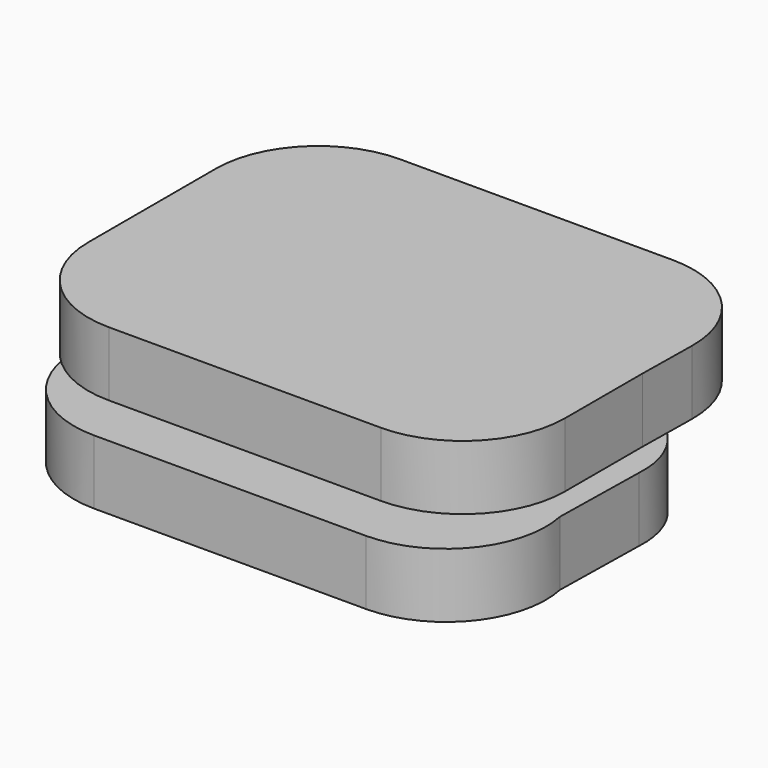
from build123d import *

# Parameters (mm, degrees)
F1_DEPTH = 8
F4_DEPTH = 8


with BuildPart() as f1:
    # F0 (on Top) → F1 (new body)
    with BuildSketch(Plane.XY):
        with BuildLine():
            Line((-17.608003, -17.78), (16.173997, -17.78))
            ThreePointArc((16.173997, -17.78), (25.796989, -13.212383), (28.342361, -2.868971))
            Line((28.342361, -2.868971), (28.567445, 9.127986))
            ThreePointArc((28.567445, 9.127986), (26.956623, 15.485972), (21.91684, 19.683511))
            Line((21.91684, 19.683511), (2.171596, 25.911591))
            ThreePointArc((2.171596, 25.911591), (-1.78544, 26.543789), (-5.742477, 25.911591))
            Line((-5.742477, 25.911591), (-24.675893, 19.683511))
            ThreePointArc((-24.675893, 19.683511), (-29.011473, 15.238116), (-30.11832, 9.127986))
            Line((-30.11832, 9.127986), (-29.775796, -2.866186))
            ThreePointArc((-29.775796, -2.866186), (-27.231893, -13.211282), (-17.608003, -17.78))
        make_face()
    extrude(amount=F1_DEPTH)


with BuildPart() as f4:
    # F3 (on offset) → F4 (new body)
    with BuildSketch(Plane.XY.offset(15)):
        with BuildLine():
            Line((-12.672412, -21.645996), (21.109588, -21.645996))
            ThreePointArc((21.109588, -21.645996), (30.089845, -17.926252), (33.809588, -8.945996))
            Line((33.809588, -8.945996), (33.809588, 3.053065))
            Line((33.809588, 3.053065), (33.921308, 10.65282))
            ThreePointArc((33.921308, 10.65282), (30.268696, 19.753508), (21.22268, 23.539496))
            Line((21.22268, 23.539496), (3.957036, 23.539496))
            Line((3.957036, 23.539496), (-3.957036, 23.539496))
            Line((-3.957036, 23.539496), (-12.672412, 23.539496))
            ThreePointArc((-12.672412, 23.539496), (-21.652668, 19.819752), (-25.372412, 10.839496))
            Line((-25.372412, 10.839496), (-25.372412, 3.053065))
            Line((-25.372412, 3.053065), (-25.372412, -8.945996))
            ThreePointArc((-25.372412, -8.945996), (-21.652668, -17.926252), (-12.672412, -21.645996))
        make_face()
    extrude(amount=F4_DEPTH)


solid = Compound([f1.part, f4.part])
